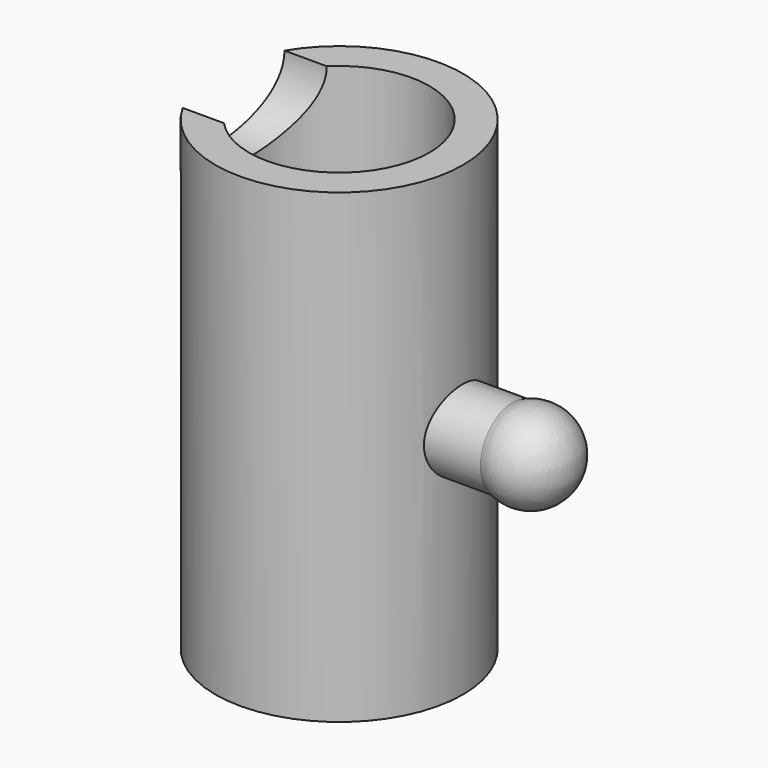
from build123d import *

# Parameters (mm, degrees)
F0_R     = 6.273799
F0_R_2   = 4.572
F1_DEPTH = 23.622
F3_R     = 2.032
F4_DEPTH = 1.9812
F8_R     = 3.175
F9_DEPTH = 8.636


with BuildPart() as f1:
    # F0 (on Top) → F1 (new body)
    with BuildSketch(Plane.XY):
        with Locations((-43.26782, 13.760585)):
            Circle(F0_R)
        with Locations((-43.26782, 13.760585)):
            Circle(F0_R_2, mode=Mode.SUBTRACT)
    extrude(amount=F1_DEPTH)

    # F3 (on offset) → F4 (join, symmetric)
    with BuildSketch(Plane.YZ.offset(-35.52952)):
        with Locations((13.747922, 11.82433)):
            Circle(F3_R)
    extrude(amount=F4_DEPTH, both=True)

    # F5 (on face) → F6 (revolve)
    with BuildSketch(Plane.YZ.offset(-33.54832)):
        with BuildLine():
            Line((11.513993, 11.82433), (11.715922, 11.82433))
            ThreePointArc((11.715922, 11.82433), (13.747922, 13.85633), (15.779922, 11.82433))
            Line((15.779922, 11.82433), (15.981852, 11.82433))
            ThreePointArc((15.981852, 11.82433), (13.747922, 14.058259), (11.513993, 11.82433))
        make_face()
    revolve(axis=Axis((-33.54832, 12.630958, 11.82433), (0, -1, 0)))

    # F8 (on offset) → F9 (cut)
    with BuildSketch(Plane.YZ.offset(-51.03876)):
        with Locations((13.828641, 23.624803)):
            Circle(F8_R)
        with Locations((13.880807, 0)):
            Circle(F8_R)
    extrude(amount=F9_DEPTH, mode=Mode.SUBTRACT)


solid = f1.part
